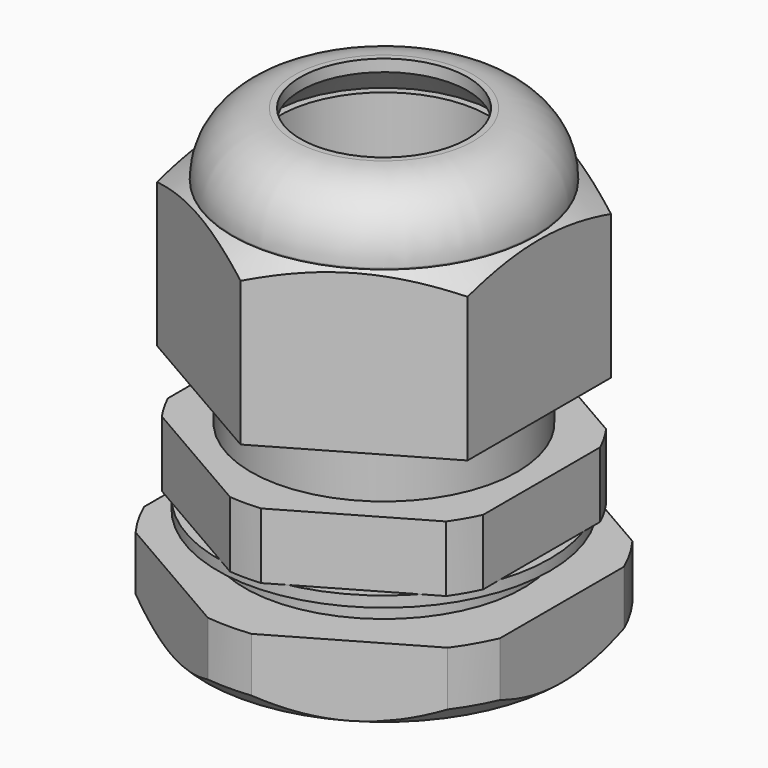
from build123d import *

# Parameters (mm, degrees)
SKETCH001_R     = 20
POCKET_DEPTH    = 15.901
SKETCH003_R     = 20
POCKET001_DEPTH = 18.701
SKETCH005_R     = 18.729211
POCKET002_DEPTH = 5.901
CHAMFER_SIZE    = 0.5
SKETCH006_R     = 13.9
SKETCH006_R_2   = 11.15
PAD_DEPTH       = 0.9


with BuildPart() as body:
    # Sketch → Revolution (revolve)
    with BuildSketch(Plane.XZ):
        Polygon((8.75, -10.4), (8.75, 25.3), (9.75, 25.3), (11.15, 19.3), (11.15, 5.5), (14.55, 5.5), (14.55, 0), (11.15, 0), (11.15, -9.4), (10.15, -10.4), align=None)
    revolve(axis=Axis((0, 0, 0), (0, 0, 1)))

    # Sketch001 (on Face2 of Revolution) → Pocket (cut, through all)
    with BuildSketch(Plane(origin=(0, 0, 5.5), x_dir=(-1, 0, 0), z_dir=(0, 0, 1))):
        Circle(SKETCH001_R)
        Polygon((0, 15.242047), (-13.2, 7.621024), (-13.2, -7.621024), (0, -15.242047), (13.2, -7.621024), (13.2, 7.621024), align=None, mode=Mode.SUBTRACT)
    extrude(amount=-POCKET_DEPTH, mode=Mode.SUBTRACT)


with BuildPart() as body001:
    # Sketch002 → Revolution001 (revolve)
    with BuildSketch(Plane.XZ):
        with BuildLine():
            Line((11.15, 8), (20, 8))
            Line((20, 8), (20, 17.185343))
            Line((20, 17.185343), (12.7, 21.4))
            Line((12.7, 21.4), (12.7, 21.5))
            ThreePointArc((12.7, 21.5), (11.176955, 25.176955), (7.5, 26.7))
            Line((7, 26.7), (7.5, 26.7))
            Line((7, 25.7), (7, 26.7))
            Line((11.15, 21.55), (7, 25.7))
            Line((11.15, 8), (11.15, 21.55))
        make_face()
    revolve(axis=Axis((0, 0, 0), (0, 0, 1)))

    # Sketch003 (on Face1 of Revolution001) → Pocket001 (cut, through all)
    with BuildSketch(Plane(origin=(0, 0, 8), x_dir=(1, 0, 0), z_dir=(0, 0, -1))):
        Circle(SKETCH003_R)
        Polygon((0, 15.011107), (-13, 7.505553), (-13, -7.505553), (0, -15.011107), (13, -7.505553), (13, 7.505553), align=None, mode=Mode.SUBTRACT)
    extrude(amount=-POCKET001_DEPTH, mode=Mode.SUBTRACT)


with BuildPart() as body001_1:
    # Body001 placement: moved
    add(body001.part.moved(Location((0, 0, 2))))


with BuildPart() as body002:
    # Sketch004 → Revolution002 (revolve)
    with BuildSketch(Plane.YZ):
        Polygon((11.15, 0), (11.15, -5.9), (14.9, -5.9), (16.25, -4.55), (16.25, 0), align=None)
    revolve(axis=Axis((0, 0, 0), (0, 0, 1)))

    # Sketch005 (on Face2 of Revolution002) → Pocket002 (cut, through all)
    with BuildSketch(Plane.YX.offset(5.9)):
        Circle(SKETCH005_R)
        Polygon((17.205038, 0), (8.602519, 14.9), (-8.602519, 14.9), (-17.205038, 0), (-8.602519, -14.9), (8.602519, -14.9), align=None, mode=Mode.SUBTRACT)
    extrude(amount=-POCKET002_DEPTH, mode=Mode.SUBTRACT)

    # Chamfer
    chamfer_edges = [body002.edges().sort_by_distance(p)[0] for p in [
        (0, -11.15, -5.9),
        (0, -11.15, 0),
    ]]
    chamfer(chamfer_edges, length=CHAMFER_SIZE)


with BuildPart() as body002_1:
    # Body002 placement: moved
    add(body002.part.moved(Location((0, 0, -2.9))))


with BuildPart() as body003:
    # Sketch006 → Pad (new body)
    with BuildSketch(Plane.XY):
        Circle(SKETCH006_R)
        Circle(SKETCH006_R_2, mode=Mode.SUBTRACT)
    extrude(amount=-PAD_DEPTH)


solid = Compound([body.part, body001_1.part, body002_1.part, body003.part])
